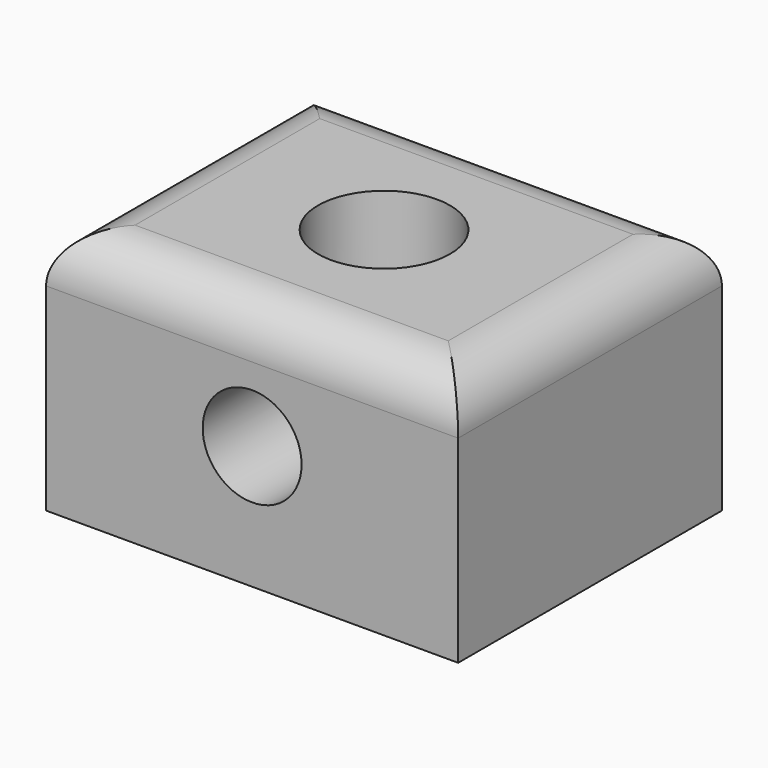
from build123d import *

# Parameters (mm, degrees)
F0_W     = 25
F0_H     = 20
F0_R     = 4
F1_DEPTH = 15
F2_R     = 3
F3_DEPTH = 10
F4_R     = 3


with BuildPart() as f1:
    # F0 (on Top) → F1 (new body)
    with BuildSketch(Plane.XY):
        with Locations((12.5, -10)):
            Rectangle(F0_W, F0_H)
        with Locations((12.5, -10)):
            Circle(F0_R, mode=Mode.SUBTRACT)
    extrude(amount=F1_DEPTH)

    # F2 (on face) → F3 (cut)
    with BuildSketch(Plane.XZ.offset(20)):
        with Locations((12.5, 7.5)):
            Circle(F2_R)
    extrude(amount=-F3_DEPTH, mode=Mode.SUBTRACT)

    # F4
    f4_edges = [f1.edges().sort_by_distance(p)[0] for p in [
        (0, -10, 15),
        (12.5, 0, 15),
        (25, -10, 15),
        (12.5, -20, 15),
    ]]
    fillet(f4_edges, radius=F4_R)


solid = f1.part
